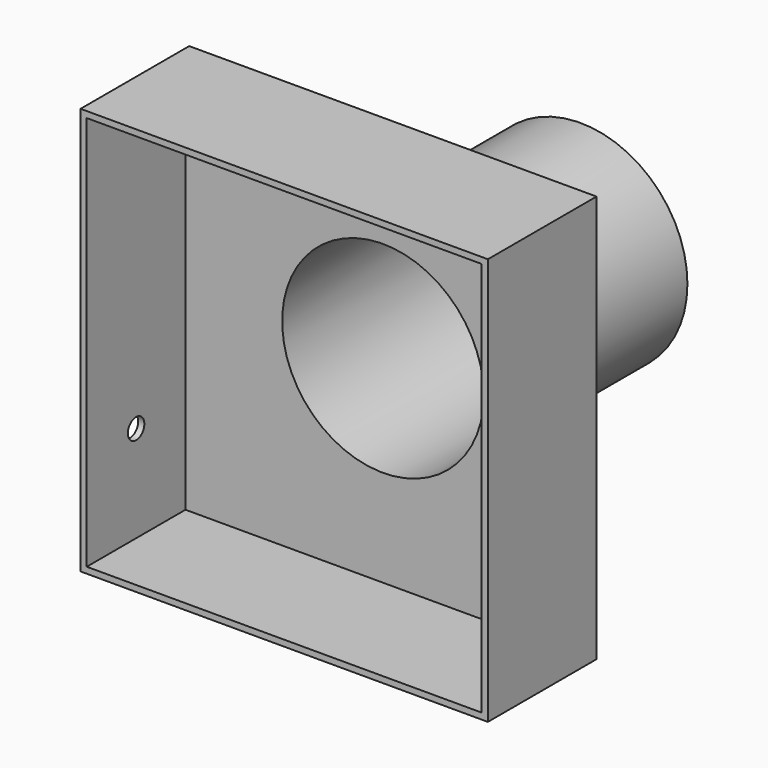
from build123d import *

# Parameters (mm, degrees)
F0_W     = 99
F0_H     = 99
F1_DEPTH = 3
F2_R     = 26
F2_R_2   = 23
F3_DEPTH = 4
F4_R     = 26
F4_R_2   = 24.5
F5_DEPTH = 60
F6_W     = 99
F6_H     = 99
F6_W_2   = 96
F6_H_2   = 96
F7_DEPTH = 30
F8_R     = 2.5
F9_DEPTH = 25


with BuildPart() as f1:
    # F0 (on Front) → F1 (new body)
    with BuildSketch(Plane.XZ):
        Rectangle(F0_W, F0_H)
    extrude(amount=-F1_DEPTH)

    # F2 (on Front) → F3 (cut)
    with BuildSketch(Plane.XZ):
        Circle(F2_R)
        Circle(F2_R_2, mode=Mode.SUBTRACT)
        Circle(F2_R_2)
    extrude(amount=-F3_DEPTH, mode=Mode.SUBTRACT)

    # F4 (on face) → F5 (join)
    with BuildSketch(Plane.XZ):
        Circle(F4_R)
        Circle(F4_R_2, mode=Mode.SUBTRACT)
    extrude(amount=-F5_DEPTH)

    # F6 (on Front) → F7 (join)
    with BuildSketch(Plane.XZ):
        Rectangle(F6_W, F6_H)
        Rectangle(F6_W_2, F6_H_2, mode=Mode.SUBTRACT)
    extrude(amount=F7_DEPTH)

    # F8 (on face) → F9 (cut)
    with BuildSketch(Plane.YZ.offset(-48)):
        with Locations((-15, -24.5450405731)):
            Circle(F8_R)
    extrude(amount=-F9_DEPTH, mode=Mode.SUBTRACT)


solid = f1.part
